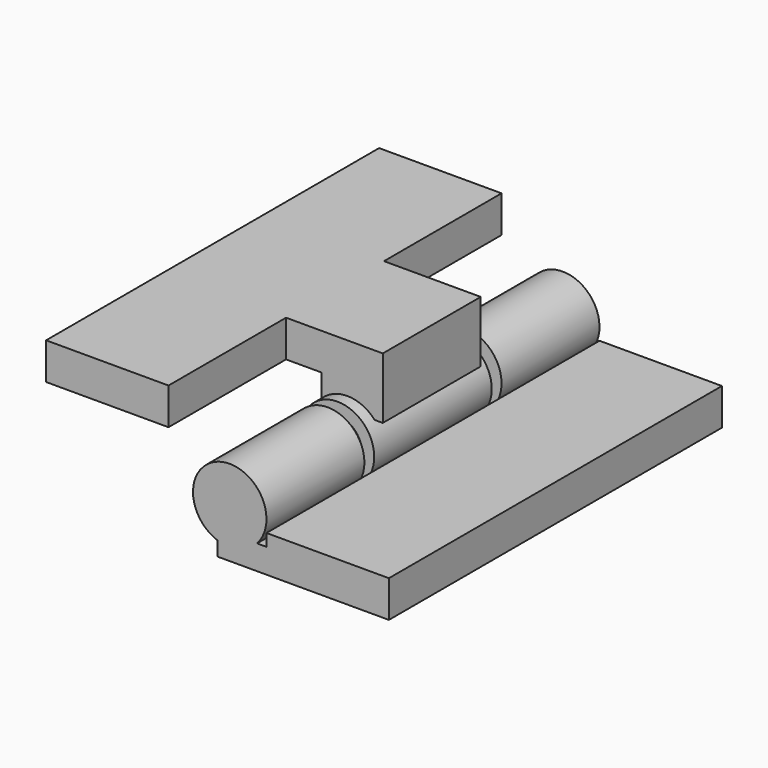
from build123d import *

# Parameters (mm, degrees)
BOX003_W               = 4
BOX003_H               = 10
BOX003_DEPTH           = 2
BOX001_W               = 10
BOX001_H               = 34
BOX001_DEPTH           = 3
CYLINDER002_R          = 3
CYLINDER002_DEPTH      = 10
CYLINDER002_ROLL_ANGLE = 90
CYLINDER004_R          = 1.5
CYLINDER004_DEPTH      = 30
CYLINDER004_ROLL_ANGLE = 90
CYLINDER_R             = 3
CYLINDER_DEPTH         = 10
CYLINDER_ROLL_ANGLE    = 90
BOX004_W               = 4
BOX004_H               = 10
BOX004_DEPTH           = 2
BOX002_W               = 8
BOX002_H               = 10
BOX002_DEPTH           = 3
BOX_W                  = 10
BOX_H                  = 34
BOX_DEPTH              = 3
CYLINDER003_R          = 2
CYLINDER003_DEPTH      = 12
CYLINDER003_ROLL_ANGLE = 90
CYLINDER001_R          = 3
CYLINDER001_DEPTH      = 12
CYLINDER001_ROLL_ANGLE = 90
BOX005_W               = 5
BOX005_H               = 10
BOX005_DEPTH           = 3


with BuildPart() as cube003:
    # Box003 → Box003 (new body)
    with BuildSketch(Plane(origin=(-1, -10, -6), x_dir=(1, 0, 0), z_dir=(0, 0, 1))):
        with Locations((2, 5)):
            Rectangle(BOX003_W, BOX003_H)
    extrude(amount=BOX003_DEPTH)


with BuildPart() as cube001:
    # Box001 → Box001 (new body)
    with BuildSketch(Plane(origin=(3, -10, -6), x_dir=(1, 0, 0), z_dir=(0, 0, 1))):
        with Locations((5, 17)):
            Rectangle(BOX001_W, BOX001_H)
    extrude(amount=BOX001_DEPTH)


with BuildPart() as cylinder002:
    # Cylinder002 → Cylinder002 (new body)
    with BuildSketch(Plane.XY):
        Circle(CYLINDER002_R)
    extrude(amount=CYLINDER002_DEPTH)


with BuildPart() as cylinder002_1:
    # Cylinder002 roll: moved
    add(cylinder002.part.rotate(Axis((0, 0, 0), (1, 0, 0)), CYLINDER002_ROLL_ANGLE))


with BuildPart() as cylinder002_2:
    # Cylinder002 placement: moved
    add(cylinder002_1.part.moved(Location((0, 24, -2))))


with BuildPart() as cylinder004:
    # Cylinder004 → Cylinder004 (new body)
    with BuildSketch(Plane.XY):
        Circle(CYLINDER004_R)
    extrude(amount=CYLINDER004_DEPTH)


with BuildPart() as cylinder004_1:
    # Cylinder004 roll: moved
    add(cylinder004.part.rotate(Axis((0, 0, 0), (1, 0, 0)), CYLINDER004_ROLL_ANGLE))


with BuildPart() as cylinder004_2:
    # Cylinder004 placement: moved
    add(cylinder004_1.part.moved(Location((0, 22, -2))))


with BuildPart() as fusion:
    # Cylinder → Cylinder (new body)
    with BuildSketch(Plane.XY):
        Circle(CYLINDER_R)
    extrude(amount=CYLINDER_DEPTH)


with BuildPart() as fusion_1:
    # Cylinder roll: moved
    add(fusion.part.rotate(Axis((0, 0, 0), (1, 0, 0)), CYLINDER_ROLL_ANGLE))


with BuildPart() as fusion_2:
    # Cylinder placement: moved
    add(fusion_1.part.moved(Location((0, 0, -2))))

    # Fusion: union Cylinder002, Cylinder004
    add(cylinder002_2.part)
    add(cylinder004_2.part)


with BuildPart() as fusion003:
    # Box004 → Box004 (new body)
    with BuildSketch(Plane(origin=(-1, 14, -6), x_dir=(1, 0, 0), z_dir=(0, 0, 1))):
        with Locations((2, 5)):
            Rectangle(BOX004_W, BOX004_H)
    extrude(amount=BOX004_DEPTH)

    # Fusion003: union Cube003, Cube001, Fusion
    add(cube003.part)
    add(cube001.part)
    add(fusion_2.part)


with BuildPart() as cube002:
    # Box002 → Box002 (new body)
    with BuildSketch(Plane(origin=(-5.1, 2, 2), x_dir=(1, 0, 0), z_dir=(0, 0, 1))):
        with Locations((4, 5)):
            Rectangle(BOX002_W, BOX002_H)
    extrude(amount=BOX002_DEPTH)


with BuildPart() as fusion001:
    # Box → Box (new body)
    with BuildSketch(Plane(origin=(-15, -10, 2), x_dir=(1, 0, 0), z_dir=(0, 0, 1))):
        with Locations((5, 17)):
            Rectangle(BOX_W, BOX_H)
    extrude(amount=BOX_DEPTH)

    # Fusion001: union Cube002
    add(cube002.part)


with BuildPart() as cylinder003:
    # Cylinder003 → Cylinder003 (new body)
    with BuildSketch(Plane.XY):
        Circle(CYLINDER003_R)
    extrude(amount=CYLINDER003_DEPTH)


with BuildPart() as cylinder003_1:
    # Cylinder003 roll: moved
    add(cylinder003.part.rotate(Axis((0, 0, 0), (1, 0, 0)), CYLINDER003_ROLL_ANGLE))


with BuildPart() as cylinder003_2:
    # Cylinder003 placement: moved
    add(cylinder003_1.part.moved(Location((0, 13, -2))))


with BuildPart() as fusion002:
    # Cylinder001 → Cylinder001 (new body)
    with BuildSketch(Plane.XY):
        Circle(CYLINDER001_R)
    extrude(amount=CYLINDER001_DEPTH)


with BuildPart() as fusion002_1:
    # Cylinder001 roll: moved
    add(fusion002.part.rotate(Axis((0, 0, 0), (1, 0, 0)), CYLINDER001_ROLL_ANGLE))


with BuildPart() as fusion002_2:
    # Cylinder001 placement: moved
    add(fusion002_1.part.moved(Location((0, 13, -2))))

    # Cut: cut Cylinder003
    add(cylinder003_2.part, mode=Mode.SUBTRACT)

    # Fusion002: union Fusion001
    add(fusion001.part)


with BuildPart() as fusion004:
    # Box005 → Box005 (new body)
    with BuildSketch(Plane(origin=(-2.1, 2, 0), x_dir=(1, 0, 0), z_dir=(0, 0, 1))):
        with Locations((2.5, 5)):
            Rectangle(BOX005_W, BOX005_H)
    extrude(amount=BOX005_DEPTH)

    # Fusion004: union Fusion002
    add(fusion002_2.part)


solid = Compound([fusion003.part, fusion004.part])
